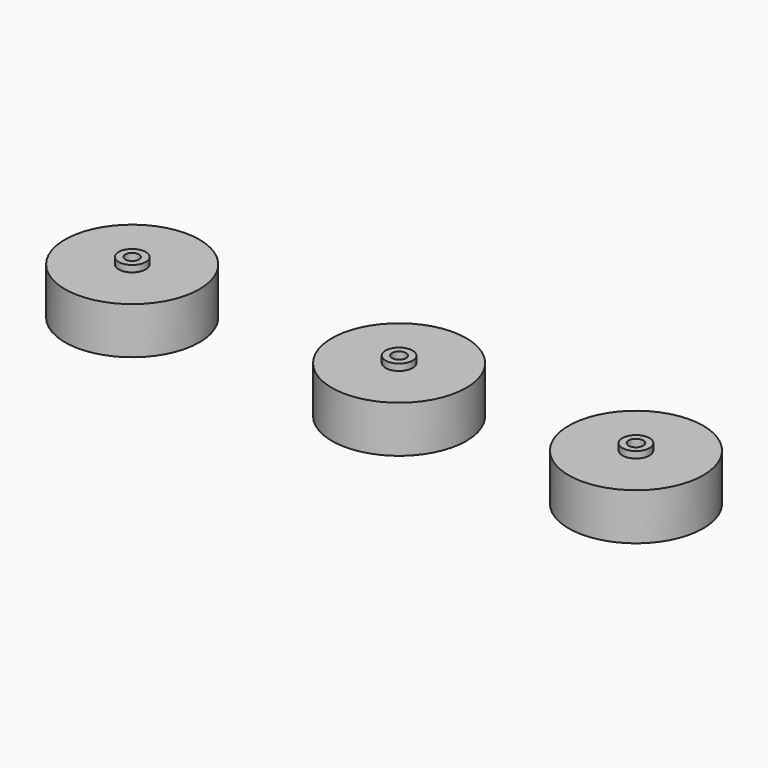
from build123d import *

# Parameters (mm, degrees)
F0_R     = 13.875
F0_R_2   = 2.8
F0_R_3   = 1.45
F0_R_4   = 1.425
F0_R_5   = 1.5
F1_DEPTH = 9.65
F2_DEPTH = 1.35
F3_DEPTH = 7.65


with BuildPart() as f1:
    # F0 (on Top) → F1 (new body)
    with BuildSketch(Plane.XY):
        Circle(F0_R)
        Circle(F0_R_2, mode=Mode.SUBTRACT)
        with Locations((48.875336, 0)):
            Circle(F0_R)
        with Locations((48.875336, 0)):
            Circle(F0_R_2, mode=Mode.SUBTRACT)
        with Locations((-55.078089, 0)):
            Circle(F0_R)
        with Locations((-55.078089, 0)):
            Circle(F0_R_2, mode=Mode.SUBTRACT)
        Circle(F0_R_2)
        Circle(F0_R_3, mode=Mode.SUBTRACT)
        Circle(F0_R_3)
        with Locations((-55.078089, 0)):
            Circle(F0_R_2)
        with Locations((-55.078089, 0)):
            Circle(F0_R_4, mode=Mode.SUBTRACT)
        with Locations((-55.078089, 0)):
            Circle(F0_R_4)
        with Locations((48.875336, 0)):
            Circle(F0_R_2)
        with Locations((48.875336, 0)):
            Circle(F0_R_5, mode=Mode.SUBTRACT)
        with Locations((48.875336, 0)):
            Circle(F0_R_5)
    extrude(amount=-F1_DEPTH)

    # F0 (on Top) → F2 (join)
    with BuildSketch(Plane.XY):
        Circle(F0_R_2)
        Circle(F0_R_3, mode=Mode.SUBTRACT)
        with Locations((48.875336, 0)):
            Circle(F0_R_2)
        with Locations((48.875336, 0)):
            Circle(F0_R_5, mode=Mode.SUBTRACT)
        with Locations((-55.078089, 0)):
            Circle(F0_R_2)
        with Locations((-55.078089, 0)):
            Circle(F0_R_4, mode=Mode.SUBTRACT)
    extrude(amount=F2_DEPTH)

    # F0 (on Top) → F3 (cut)
    with BuildSketch(Plane.XY):
        Circle(F0_R_3)
        with Locations((-55.078089, 0)):
            Circle(F0_R_4)
        with Locations((48.875336, 0)):
            Circle(F0_R_5)
    extrude(amount=-F3_DEPTH, mode=Mode.SUBTRACT)


solid = f1.part
